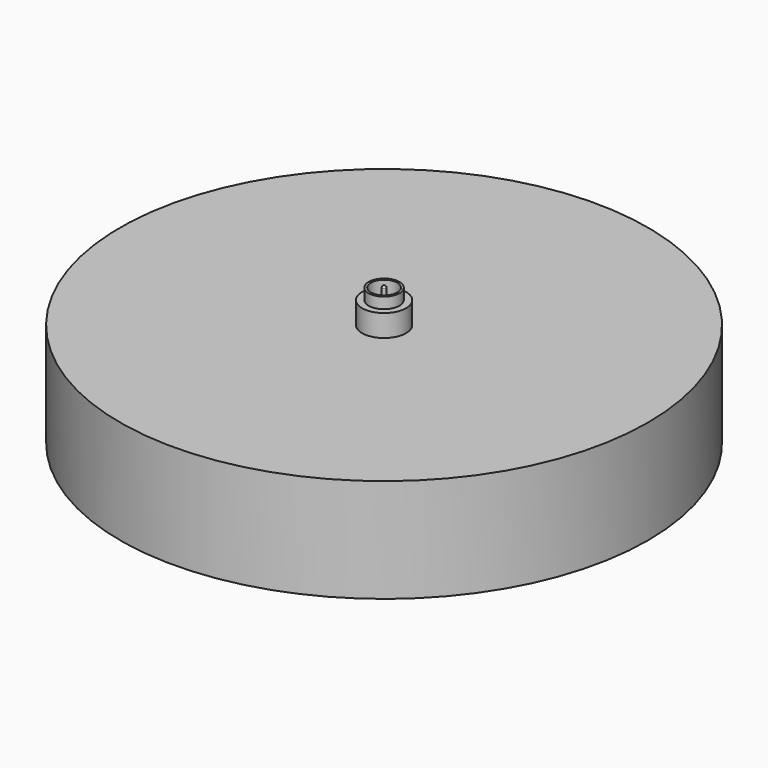
from build123d import *


with BuildPart() as part:
    # Sketch → Revolution (revolve)
    with BuildSketch(Plane.XZ):
        with BuildLine():
            Line((0.085, 6.215), (0.085, 4.715))
            Line((0.085, 4.715), (0.6, 4.715))
            Line((0.6, 4.715), (0.6, 6.215))
            Line((0.6, 6.215), (0.7, 6.215))
            Line((0.7, 6.215), (0.7, 5.715))
            Line((0.7, 5.715), (1, 5.715))
            Line((1, 5.715), (1, 4.715))
            Line((1, 4.715), (12, 4.715))
            Line((12, 4.715), (12, 0))
            Line((12, 0), (0, 0))
            Line((0, 0), (0, 6.3))
            ThreePointArc((0.085, 6.215), (0.060104, 6.275104), (0, 6.3))
        make_face()
    revolve(axis=Axis((0, 0, 0), (0, 0, 1)))


solid = part.part
